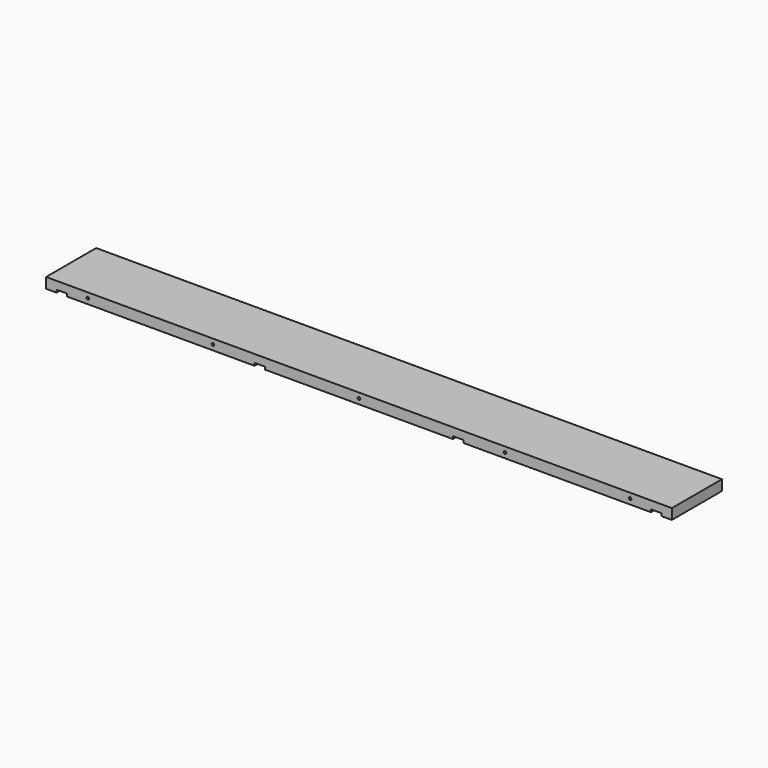
from build123d import *

# Parameters (mm, degrees)
F0_W     = 1524
F0_H     = 152.4
F1_DEPTH = 25.4
F2_W     = 25.4
F2_H     = 215.9000692942
F3_DEPTH = 6.35
F4_R     = 3.175
F5_DEPTH = 25.4
F6_START = -127
F6_DEPTH = 25.4


with BuildPart() as f1:
    # F0 (on Top) → F1 (new body)
    with BuildSketch(Plane.XY):
        with Locations((762, 76.2)):
            Rectangle(F0_W, F0_H)
    extrude(amount=F1_DEPTH)

    # F2 (on Top) → F3 (cut)
    with BuildSketch(Plane.XY):
        with Locations((38.1, 77.0159456879)):
            Rectangle(F2_W, F2_H)
        with Locations((520.7, 77.0159456879)):
            Rectangle(F2_W, F2_H)
        with Locations((1003.3, 77.0159456879)):
            Rectangle(F2_W, F2_H)
        with Locations((1485.9, 77.0159456879)):
            Rectangle(F2_W, F2_H)
    extrude(amount=F3_DEPTH, mode=Mode.SUBTRACT)

    # F4 (on Front) → F5 (cut)
    with BuildSketch(Plane.XZ):
        with Locations((101.6, 12.7)):
            Circle(F4_R)
        with Locations((406.4, 12.7)):
            Circle(F4_R)
        with Locations((762, 12.7)):
            Circle(F4_R)
        with Locations((1117.6, 12.7)):
            Circle(F4_R)
        with Locations((1422.4, 12.7)):
            Circle(F4_R)
    extrude(amount=-F5_DEPTH, mode=Mode.SUBTRACT)

    # F4 (on Front) → F6 (cut)
    with BuildSketch(Plane.XZ.offset(F6_START)):
        with Locations((762, 12.7)):
            Circle(F4_R)
        with Locations((1117.6, 12.7)):
            Circle(F4_R)
        with Locations((1422.4, 12.7)):
            Circle(F4_R)
        with Locations((406.4, 12.7)):
            Circle(F4_R)
        with Locations((101.6, 12.7)):
            Circle(F4_R)
    extrude(amount=-F6_DEPTH, mode=Mode.SUBTRACT)


solid = f1.part
